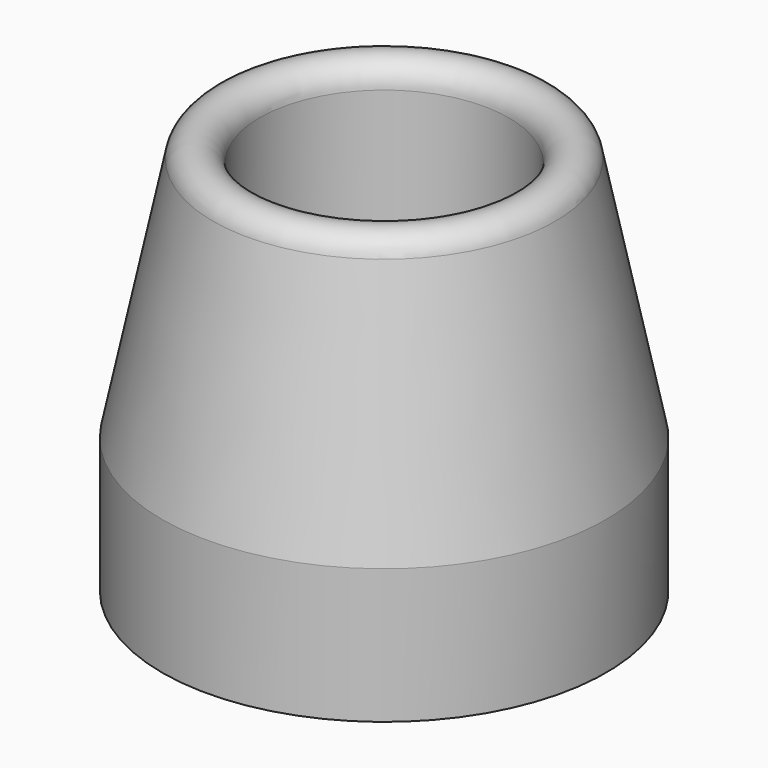
from build123d import *

# Parameters (mm, degrees)
F2_R     = 5.08005
F3_DEPTH = 0.7
F4_R     = 2.532044
F5_DEPTH = 25


with BuildPart() as f1:
    # F0 (on Front) → F1 (revolve)
    with BuildSketch(Plane.XZ):
        with BuildLine():
            Line((-9.45, 0), (0, 0))
            Line((0, 0), (0, 7.03))
            Line((0, 7.03), (-4.8, 7.03))
            ThreePointArc((-4.8, 7.03), (-5.153553, 7.176447), (-5.3, 7.53))
            Line((-5.3, 7.53), (-5.3, 16))
            ThreePointArc((-5.3, 16), (-6.197891, 16.994773), (-7.279148, 16.20315))
            Line((-7.279148, 16.20315), (-9.45, 5.74))
            Line((-9.45, 5.74), (-9.45, 0))
        make_face()
    revolve(axis=Axis((0, 0, 3.515), (0, 0, -1)))

    # F2 (on face) → F3 (cut)
    with BuildSketch(Plane(origin=(0, 0, 0), x_dir=(1, 0, 0), z_dir=(0, 0, -1))):
        Circle(F2_R)
    extrude(amount=-F3_DEPTH, mode=Mode.SUBTRACT)

    # F4 (on face) → F5 (cut)
    with BuildSketch(Plane(origin=(0, 0, 0.7), x_dir=(1, 0, 0), z_dir=(0, 0, -1))):
        Circle(F4_R)
    extrude(amount=-F5_DEPTH, mode=Mode.SUBTRACT)


solid = f1.part
